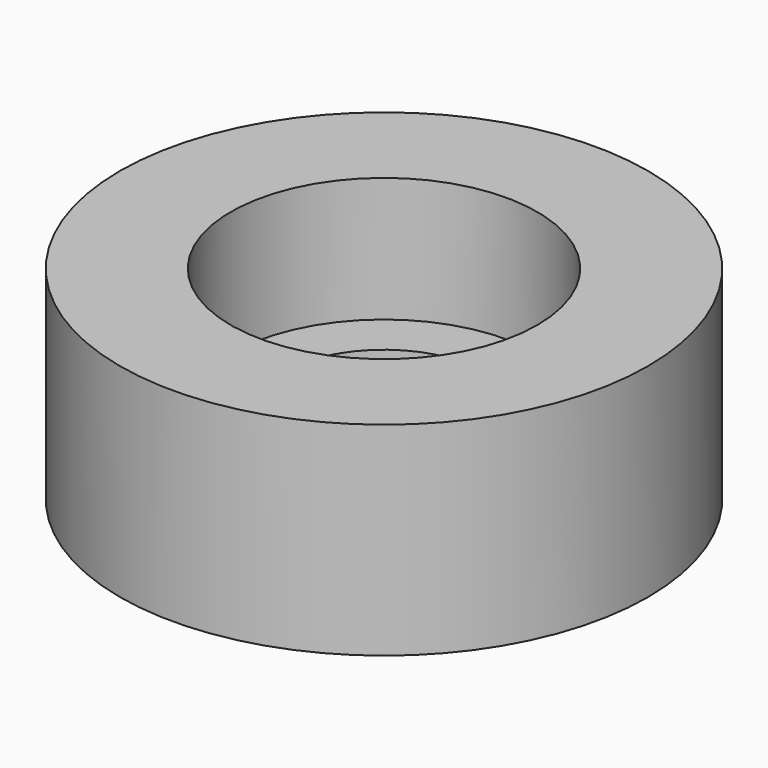
from build123d import *

# Parameters (mm, degrees)
F0_R     = 65.653688
F0_R_2   = 38.1
F1_DEPTH = 50.546
F0_R_3   = 25.4
F2_DEPTH = 19.558
F3_SIZE  = 12.7


with BuildPart() as f1:
    # F0 (on Top) → F1 (new body)
    with BuildSketch(Plane.XY):
        Circle(F0_R)
        Circle(F0_R_2, mode=Mode.SUBTRACT)
    extrude(amount=F1_DEPTH)

    # F0 (on Top) → F2 (join)
    with BuildSketch(Plane.XY):
        Circle(F0_R_2)
        Circle(F0_R_3, mode=Mode.SUBTRACT)
    extrude(amount=F2_DEPTH)

    # F3
    f3_edges = [f1.edges().sort_by_distance(p)[0] for p in [
        (-25.4, 0, 0),
    ]]
    chamfer(f3_edges, length=F3_SIZE)


solid = f1.part
